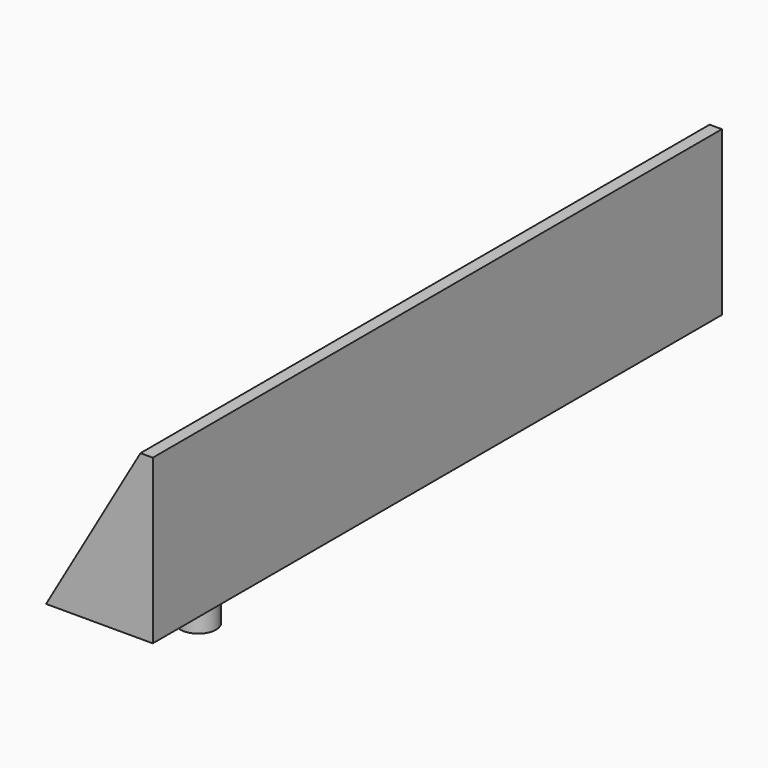
from build123d import *

# Parameters (mm, degrees)
PAD_DEPTH    = 50
SKETCH001_R  = 2.5
PAD001_DEPTH = 7
SKETCH002_R  = 2.5
POCKET_DEPTH = 7


with BuildPart() as part:
    # Sketch → Pad (new body, symmetric)
    with BuildSketch(Plane.XZ):
        Polygon((0, 0), (0, 22.9807621135), (-1.7320508076, 22.9807621135), (-15, 0), align=None)
    extrude(amount=PAD_DEPTH, both=True)

    # Sketch001 (on DatumPlane) → Pad001 (join)
    with BuildSketch(Plane(origin=(0, 0, 0), x_dir=(1, 0, 0), z_dir=(0, 0, -1))):
        with Locations((-7.5, 32.6343382758)):
            Circle(SKETCH001_R)
    extrude(amount=PAD001_DEPTH)

    # Sketch002 (on Face6 of Pad001) → Pocket (cut)
    with BuildSketch(Plane(origin=(-11.25, 0, 6.4951905284), x_dir=(-0.5, 0, -0.8660254038), z_dir=(-0.8660254038, 0, 0.5))):
        with Locations((-5.7679491924, 17.9491805705)):
            Circle(SKETCH002_R)
    extrude(amount=-POCKET_DEPTH, mode=Mode.SUBTRACT)


solid = part.part
